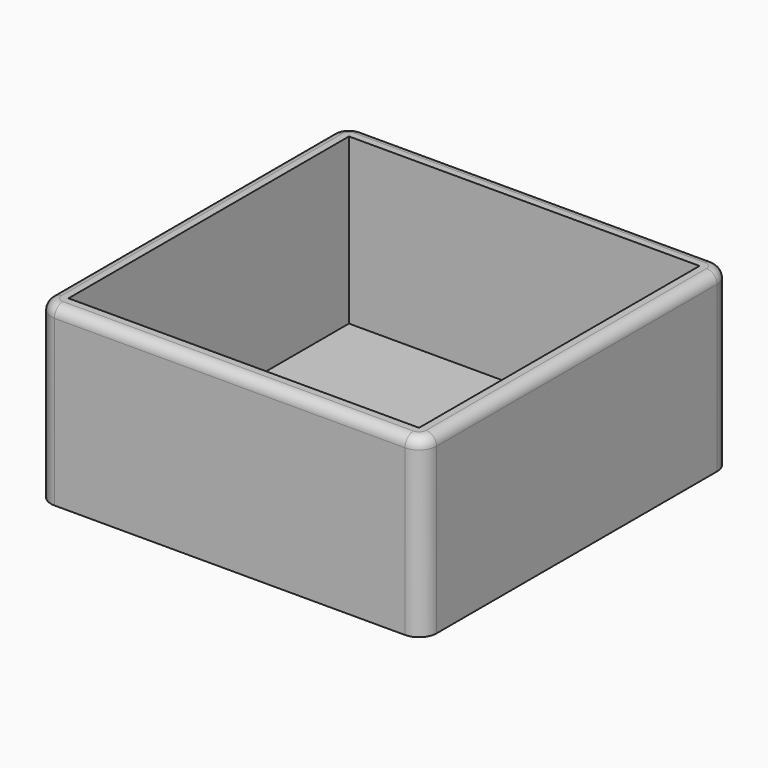
from build123d import *

# Parameters (mm, degrees)
F0_W     = 100
F0_H     = 100
F1_DEPTH = 3
F2_DEPTH = 50
F3_R     = 3


with BuildPart() as f1:
    # F0 (on Top) → F1 (new body)
    with BuildSketch(Plane.XY):
        with Locations((3.506646, -1.476071)):
            Rectangle(F0_W, F0_H)
    extrude(amount=F1_DEPTH)

    # F0 (on Top) → F2 (join)
    with BuildSketch(Plane.XY):
        with BuildLine():
            Line((53.506646, 53.523929), (-46.493354, 53.523929))
            ThreePointArc((-46.493354, 53.523929), (-50.028888, 52.059462), (-51.493354, 48.523929))
            Line((-51.493354, 48.523929), (-51.493354, -51.476071))
            ThreePointArc((-51.493354, -51.476071), (-50.028888, -55.011605), (-46.493354, -56.476071))
            Line((-46.493354, -56.476071), (53.506646, -56.476071))
            ThreePointArc((53.506646, -56.476071), (57.04218, -55.011605), (58.506646, -51.476071))
            Line((58.506646, -51.476071), (58.506646, 48.523929))
            ThreePointArc((58.506646, 48.523929), (57.04218, 52.059462), (53.506646, 53.523929))
        make_face()
        with Locations((3.506646, -1.476071)):
            Rectangle(F0_W, F0_H, mode=Mode.SUBTRACT)
    extrude(amount=F2_DEPTH)

    # F3
    f3_edges = [f1.edges().sort_by_distance(p)[0] for p in [
        (-51.493354, -1.476071, 50),
    ]]
    fillet(f3_edges, radius=F3_R)


solid = f1.part
